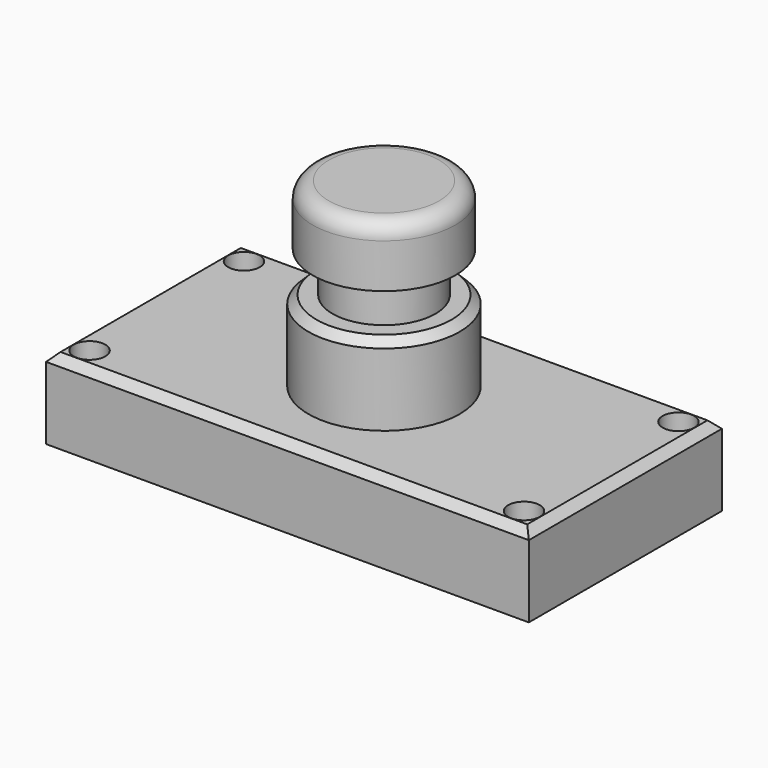
from build123d import *

# Parameters (mm, degrees)
F0_W      = 152.4
F0_H      = 76.2
F0_R      = 4.997789
F1_DEPTH  = 25.4
F2_R      = 23.86958
F3_DEPTH  = 25.4
F4_R      = 16.254636
F5_DEPTH  = 12.7
F6_R      = 22.497737
F7_DEPTH  = 19.05
F8_SIZE   = 2.54
F8_2_SIZE = 2.54
F9_R      = 5.08


with BuildPart() as f1:
    # F0 (on Top) → F1 (new body)
    with BuildSketch(Plane.XY):
        Rectangle(F0_W, F0_H)
        with Locations((-68.58, -30.48)):
            Circle(F0_R, mode=Mode.SUBTRACT)
        with Locations((68.58, -30.48)):
            Circle(F0_R, mode=Mode.SUBTRACT)
        with Locations((-68.58, 30.48)):
            Circle(F0_R, mode=Mode.SUBTRACT)
        with Locations((68.58, 30.48)):
            Circle(F0_R, mode=Mode.SUBTRACT)
    extrude(amount=F1_DEPTH)

    # F8
    f8_edges = [f1.edges().sort_by_distance(p)[0] for p in [
        (0, -38.1, 25.4),
        (76.2, 0, 25.4),
        (-76.2, 0, 25.4),
        (0, 38.1, 25.4),
    ]]
    chamfer(f8_edges, length=F8_SIZE)


with BuildPart() as f3:
    # F2 (on face) → F3 (new body)
    with BuildSketch(Plane.XY.offset(25.4)):
        Circle(F2_R)
    extrude(amount=F3_DEPTH)

    # F4 (on face) → F5 (join)
    with BuildSketch(Plane.XY.offset(50.8)):
        Circle(F4_R)
    extrude(amount=F5_DEPTH)

    # F6 (on face) → F7 (join)
    with BuildSketch(Plane.XY.offset(63.5)):
        Circle(F6_R)
    extrude(amount=F7_DEPTH)

    # F8#2
    f8_2_edges = [f3.edges().sort_by_distance(p)[0] for p in [
        (-23.86958, 0, 50.8),
    ]]
    chamfer(f8_2_edges, length=F8_2_SIZE)

    # F9
    f9_edges = [f3.edges().sort_by_distance(p)[0] for p in [
        (-22.497737, 0, 82.55),
    ]]
    fillet(f9_edges, radius=F9_R)


solid = Compound([f1.part, f3.part])
